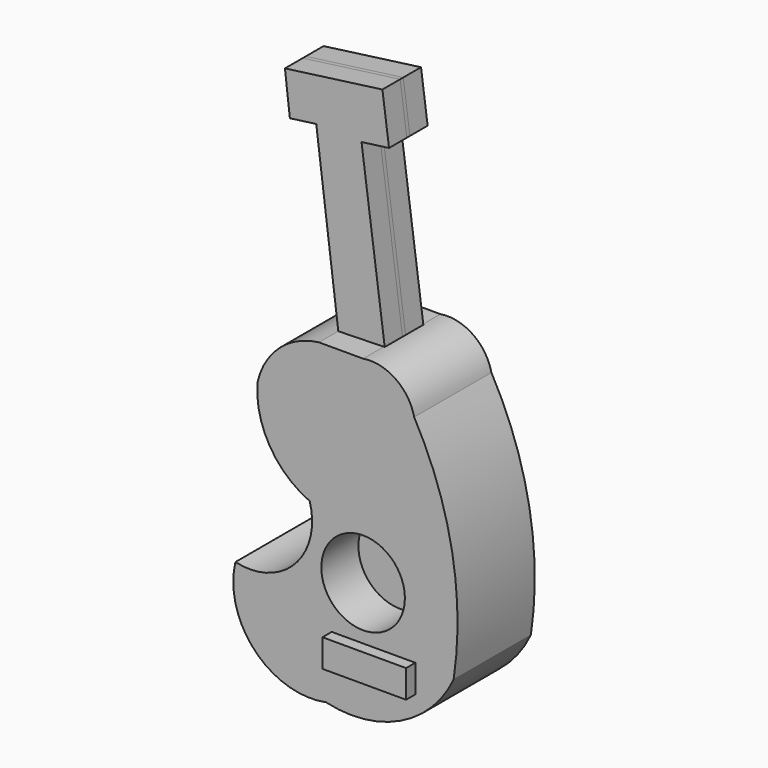
from build123d import *

# Parameters (mm, degrees)
F3_DEPTH = 6.35
F0_R     = 10.99374
F4_DEPTH = 0.508
F5_DEPTH = 12.7
F6_DEPTH = 15.748


with BuildPart() as f3:
    # F2 (on Front) + F1 (on Front) → F3 (new body, symmetric)
    with BuildSketch(Plane.XZ):
        Polygon((-39.205392, -51.456813), (-45.349181, -51.456813), (-45.349181, -58.785971), (-23.3617, -58.785971), (-23.3617, -51.456813), (-30.349323, -51.456813), (-33.403141, -51.456813), (-36.456955, -51.456813), align=None)
    with BuildSketch(Plane.XZ):
        Polygon((-54.510631, 60.618263), (-48.708379, 14.505629), (-36.493111, 14.811012), (-42.600743, 60.312882), align=None)
        Polygon((-61.450365, 59.686755), (-54.510631, 60.618263), (-42.600743, 60.312882), (-35.361034, 61.284655), (-37.102713, 74.260171), (-62.749736, 70.817618), align=None)
    extrude(amount=F3_DEPTH, both=True)


with BuildPart() as f4:
    # F1 (on Front) + F0 (on Front) → F4 (new body, symmetric)
    with BuildSketch(Plane.XZ):
        Polygon((-54.510631, 60.618263), (-48.708379, 14.505629), (-36.493111, 14.811012), (-42.600743, 60.312882), align=None)
        Polygon((-61.450365, 59.686755), (-54.510631, 60.618263), (-42.600743, 60.312882), (-35.361034, 61.284655), (-37.102713, 74.260171), (-62.749736, 70.817618), align=None)
    with BuildSketch(Plane.XZ):
        with Locations((-37.103873, -37.409257)):
            Circle(F0_R)
    extrude(amount=F4_DEPTH, both=True)


with BuildPart() as f5:
    # F0 (on Front) → F5 (new body, symmetric)
    with BuildSketch(Plane.XZ):
        with BuildLine():
            ThreePointArc((-51.151432, -23.056319), (-55.057973, -38.889639), (-70.695862, -43.516893))
            ThreePointArc((-70.695862, -43.516893), (-65.556054, -62.404188), (-46.876088, -68.252809))
            ThreePointArc((-46.876088, -68.252809), (-27.201276, -66.135097), (-13.284103, -52.067574))
            ThreePointArc((-13.284103, -52.067574), (-13.691281, -22.496449), (-23.66708, 5.34418))
            ThreePointArc((-23.66708, 5.34418), (-28.56441, 12.595803), (-37.103873, 14.505629))
            Line((-37.103873, 14.505629), (-48.708379, 14.505629))
            ThreePointArc((-48.708379, 14.505629), (-59.109259, 9.828352), (-64.893611, 0))
            ThreePointArc((-64.893611, 0), (-61.681852, -13.709218), (-51.151432, -23.056319))
        make_face()
        with Locations((-37.103873, -37.409257)):
            Circle(F0_R, mode=Mode.SUBTRACT)
    extrude(amount=F5_DEPTH, both=True)


with BuildPart() as f6:
    # F2 (on Front) → F6 (new body, symmetric)
    with BuildSketch(Plane.XZ):
        Polygon((-39.205392, -51.456813), (-45.349181, -51.456813), (-45.349181, -58.785971), (-23.3617, -58.785971), (-23.3617, -51.456813), (-30.349323, -51.456813), (-33.403141, -51.456813), (-36.456955, -51.456813), align=None)
    extrude(amount=F6_DEPTH, both=True)


solid = Compound([f3.part, f4.part, f5.part, f6.part])
